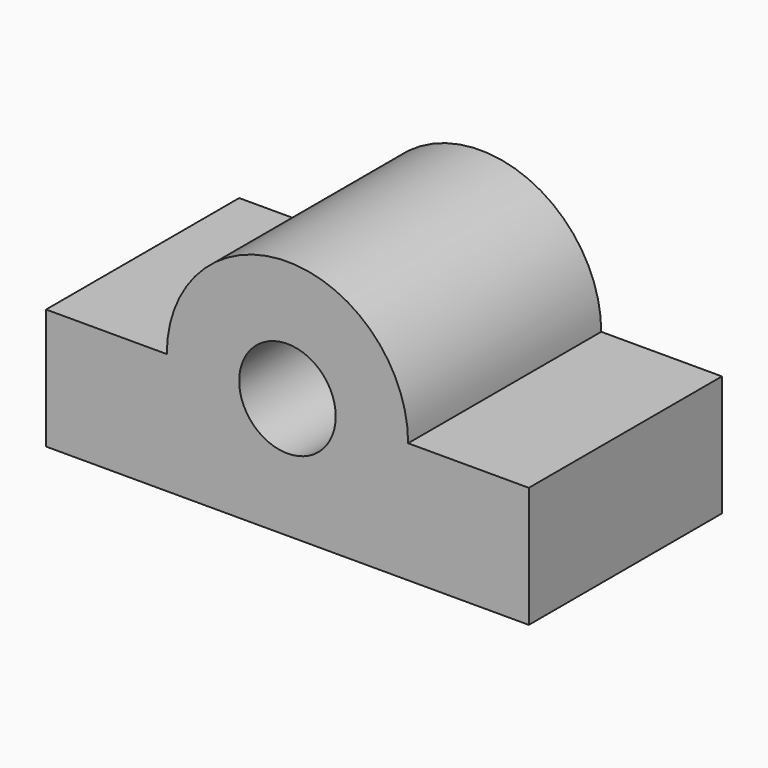
from build123d import *

# Parameters (mm, degrees)
F0_R     = 304.8
F1_DEPTH = 1524


with BuildPart() as f1:
    # F0 (on Front) → F1 (new body)
    with BuildSketch(Plane.XZ):
        with BuildLine():
            Line((1524, 0), (762, 0))
            ThreePointArc((762, 0), (0, 762), (-762, 0))
            Line((-762, 0), (-1524, 0))
            Line((-1524, 0), (-1524, -762))
            Line((-1524, -762), (1524, -762))
            Line((1524, -762), (1524, 0))
        make_face()
        Circle(F0_R, mode=Mode.SUBTRACT)
    extrude(amount=F1_DEPTH)


solid = f1.part
